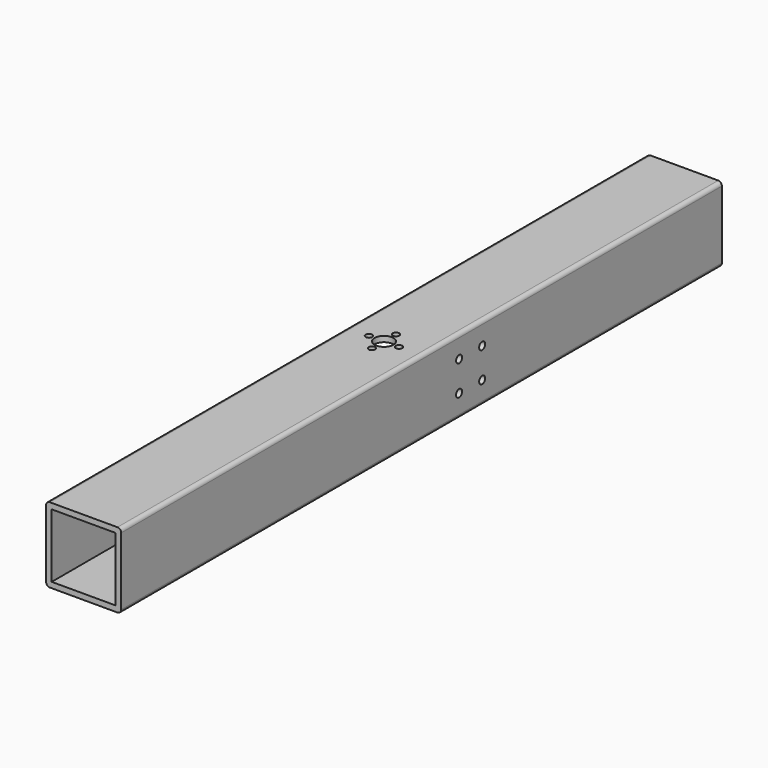
from build123d import *

# Parameters (mm, degrees)
SKETCH_W       = 34
SKETCH_H       = 34
PAD_DEPTH      = 400
SKETCH001_R    = 5
HOLE_DEPTH     = 40.001
SKETCH002_R    = 1.75
HOLE001_DEPTH  = 40.001
SKETCH003_R    = 2
HOLE002_DEPTH  = 25
HOLE002_TIPS_R = 2
SKETCH004_W    = 25
SKETCH004_H    = 30
POCKET_DEPTH   = 3


with BuildPart() as part:
    # Sketch → Pad (new body)
    with BuildSketch(Plane.XZ):
        with BuildLine():
            Line((2, 0), (38, 0))
            ThreePointArc((38, 0), (39.414214, 0.585786), (40, 2))
            Line((40, 2), (40, 38))
            ThreePointArc((40, 38), (39.414214, 39.414214), (38, 40))
            Line((38, 40), (2, 40))
            ThreePointArc((2, 40), (0.585786, 39.414214), (0, 38))
            Line((0, 38), (0, 2))
            ThreePointArc((0, 2), (0.585786, 0.585786), (2, 0))
        make_face()
        with Locations((20, 20)):
            Rectangle(SKETCH_W, SKETCH_H, mode=Mode.SUBTRACT)
    extrude(amount=PAD_DEPTH)

    # Sketch001 (on Face5 of Pad) → Hole (cut, through all)
    with BuildSketch(Plane(origin=(0, 0, 40), x_dir=(-1, 0, 0), z_dir=(0, 0, 1))):
        with Locations((-20, 200)):
            Circle(SKETCH001_R)
    extrude(amount=-HOLE_DEPTH, mode=Mode.SUBTRACT)

    # Sketch002 (on Face10 of Hole) → Hole001 (cut, through all)
    with BuildSketch(Plane(origin=(0, 0, 40), x_dir=(-1, 0, 0), z_dir=(0, 0, 1))):
        with Locations((-12.000033, 200.023056)):
            Circle(SKETCH002_R)
        with Locations((-27.999967, 200.023056)):
            Circle(SKETCH002_R)
        with Locations((-20, 192)):
            Circle(SKETCH002_R)
        with Locations((-19.996319, 207.999999)):
            Circle(SKETCH002_R)
    extrude(amount=-HOLE001_DEPTH, mode=Mode.SUBTRACT)

    # Sketch003 (on Face12 of Hole001) → Hole002 (cut)
    with BuildSketch(Plane(origin=(40, 0, 0), x_dir=(0, 0, 1), z_dir=(1, 0, 0))):
        with Locations((28, 175)):
            Circle(SKETCH003_R)
        with Locations((12, 175)):
            Circle(SKETCH003_R)
        with Locations((28, 159.64)):
            Circle(SKETCH003_R)
        with Locations((12, 159.64)):
            Circle(SKETCH003_R)
    extrude(amount=-HOLE002_DEPTH, mode=Mode.SUBTRACT)

    # Hole002 tips → Hole002 tip 1 section 0
    with BuildSketch(Plane(origin=(15, 0, 0), x_dir=(0, 0, 1), z_dir=(1, 0, 0)), mode=Mode.PRIVATE) as hole002_tip_1_s0:
        with Locations((28, 175)):
            Circle(HOLE002_TIPS_R)
    loft([hole002_tip_1_s0.sketch, Vertex(13.798279, -175, 28)], mode=Mode.SUBTRACT)

    # Hole002 tips → Hole002 tip 2 section 0
    with BuildSketch(Plane(origin=(15, 0, 0), x_dir=(0, 0, 1), z_dir=(1, 0, 0)), mode=Mode.PRIVATE) as hole002_tip_2_s0:
        with Locations((12, 175)):
            Circle(HOLE002_TIPS_R)
    loft([hole002_tip_2_s0.sketch, Vertex(13.798279, -175, 12)], mode=Mode.SUBTRACT)

    # Hole002 tips → Hole002 tip 3 section 0
    with BuildSketch(Plane(origin=(15, 0, 0), x_dir=(0, 0, 1), z_dir=(1, 0, 0)), mode=Mode.PRIVATE) as hole002_tip_3_s0:
        with Locations((28, 159.64)):
            Circle(HOLE002_TIPS_R)
    loft([hole002_tip_3_s0.sketch, Vertex(13.798279, -159.64, 28)], mode=Mode.SUBTRACT)

    # Hole002 tips → Hole002 tip 4 section 0
    with BuildSketch(Plane(origin=(15, 0, 0), x_dir=(0, 0, 1), z_dir=(1, 0, 0)), mode=Mode.PRIVATE) as hole002_tip_4_s0:
        with Locations((12, 159.64)):
            Circle(HOLE002_TIPS_R)
    loft([hole002_tip_4_s0.sketch, Vertex(13.798279, -159.64, 12)], mode=Mode.SUBTRACT)

    # Sketch004 (on Face11 of Hole002) → Pocket (cut)
    with BuildSketch(Plane(origin=(0, 0, 0), x_dir=(0, 0, -1), z_dir=(-1, 0, 0))):
        with Locations((-20, 170)):
            Rectangle(SKETCH004_W, SKETCH004_H)
    extrude(amount=-POCKET_DEPTH, mode=Mode.SUBTRACT)


solid = part.part
